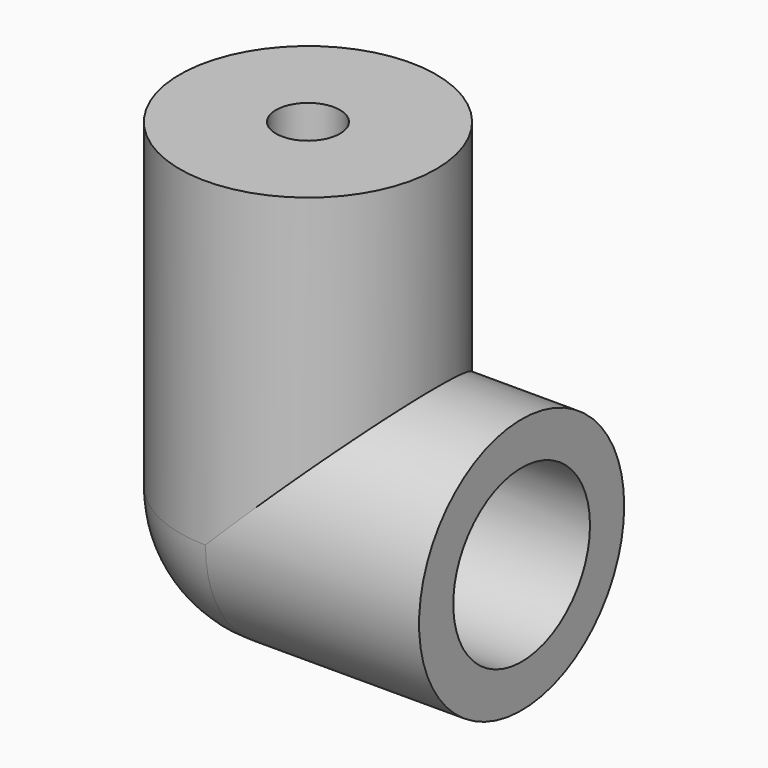
from build123d import *

# Parameters (mm, degrees)
F0_R     = 6
F0_R_2   = 1.5
F1_DEPTH = 15
F2_R     = 6
F2_R_2   = 4
F3_DEPTH = 10
F6_ANGLE = 90


with BuildPart() as f1:
    # F0 (on Top) → F1 (new body)
    with BuildSketch(Plane.XY):
        Circle(F0_R)
        Circle(F0_R_2, mode=Mode.SUBTRACT)
    extrude(amount=F1_DEPTH)

    # F2 (on Right) → F3 (join)
    with BuildSketch(Plane.YZ):
        Circle(F2_R)
        Circle(F2_R_2, mode=Mode.SUBTRACT)
    extrude(amount=F3_DEPTH)

    # F4 (on face) → F6 (revolve)
    with BuildSketch(Plane(origin=(0, 0, 0), x_dir=(1, 0, 0), z_dir=(0, 0, -1))):
        with BuildLine():
            Line((0, -6), (0, 6))
            ThreePointArc((0, 6), (-6, 0), (0, -6))
        make_face()
    revolve(axis=Axis((0, -1.910034, 0), (0, -1, 0)), revolution_arc=F6_ANGLE)


solid = f1.part
